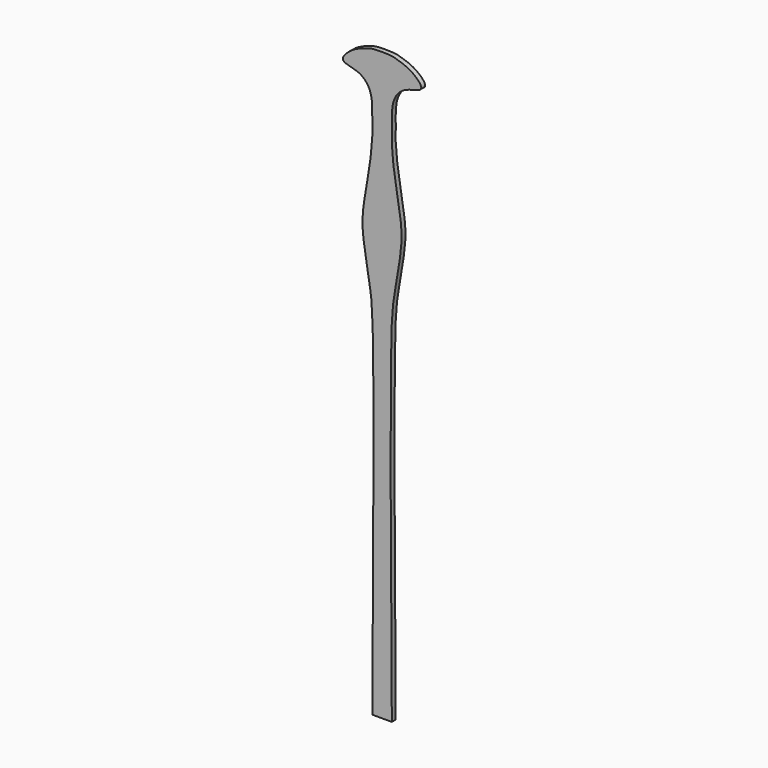
from build123d import *

# Parameters (mm, degrees)
F1_DEPTH = 6.35


with BuildPart() as f1:
    # F0 (on Front) → F1 (new body)
    with BuildSketch(Plane.XZ):
        with BuildLine():
            Line((-12.7, 0), (12.7, 0))
            add(Edge.make_bspline(
                [(12.7, 0), (11.5794250783, 191.4677760198), (9.2849510081, 447.1996937122), (15.4438525245, 486.5293687756), (19.115830028, 508.4664829813), (22.3552548502, 527.3384539621), (27.1093522363, 558.8729661415), (22.3663468355, 590.0020809248), (19.0826918489, 609.8274219403), (15.5842268837, 628.1584301558), (12.1943226883, 660.1801640391), (12.7927649609, 672.9579075438), (12.7291814017, 686.1104919109), (12.318990819, 712.6506840047), (28.4662778632, 731.4499158992), (59.3568623886, 733.3030280902), (37.9548429275, 754.3445778657), (17.9590030563, 759.904891328), (13.5576038138, 762), (0, 762)],
                knots=[0, 0, 0, 0, 0.2214205971, 0.2799153775, 0.3254233202, 0.3709312629, 0.4294260433, 0.4879208237, 0.5334287664, 0.5789367091, 0.6374314895, 0.6743349223, 0.7112383552, 0.7635576773, 0.8145658756, 0.861471713, 0.90759436, 0.9531391562, 1, 1, 1, 1], degree=3))
            add(Edge.make_bspline(
                [(-12.7, 0), (-11.5794250783, 191.4677760198), (-9.2849510081, 447.1996937122), (-15.4438525245, 486.5293687756), (-19.115830028, 508.4664829813), (-22.3552548502, 527.3384539621), (-27.1093522363, 558.8729661415), (-22.3663468355, 590.0020809248), (-19.0826918489, 609.8274219403), (-15.5842268837, 628.1584301558), (-12.1943226883, 660.1801640391), (-12.7927649609, 672.9579075438), (-12.7291814017, 686.1104919109), (-12.318990819, 712.6506840047), (-28.4662778632, 731.4499158992), (-59.3568623886, 733.3030280902), (-37.9548429275, 754.3445778657), (-17.9590030563, 759.904891328), (-13.5576038138, 762), (0, 762)],
                knots=[0, 0, 0, 0, 0.2214205971, 0.2799153775, 0.3254233202, 0.3709312629, 0.4294260433, 0.4879208237, 0.5334287664, 0.5789367091, 0.6374314895, 0.6743349223, 0.7112383552, 0.7635576773, 0.8145658756, 0.861471713, 0.90759436, 0.9531391562, 1, 1, 1, 1], degree=3))
        make_face()
    extrude(amount=F1_DEPTH)


solid = f1.part
